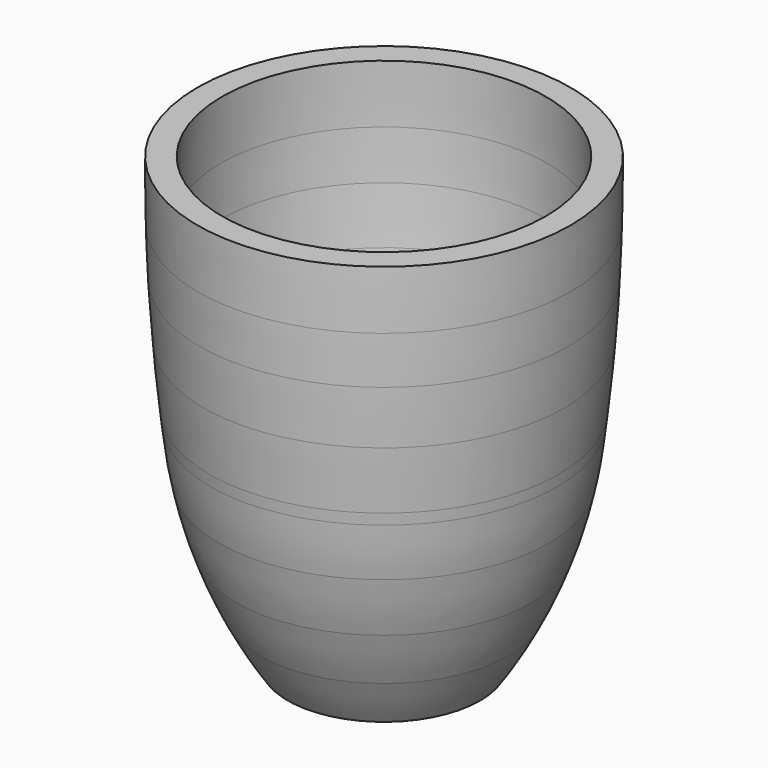
from build123d import *


with BuildPart() as f1:
    # F0 (on Front) → F1 (revolve)
    with BuildSketch(Plane.XZ):
        with BuildLine():
            Line((13.248821, -36.527123), (18.201651, -36.527123))
            ThreePointArc((18.201651, -36.527123), (21.093125, -31.97746), (23.696563, -27.257061))
            Line((23.696563, -27.257061), (19.061687, -27.257061))
            ThreePointArc((19.061687, -27.257061), (16.31296, -31.990983), (13.248821, -36.527123))
        make_face()
    revolve(axis=Axis((0, 0, 5.943397), (0, 0, 1)))


with BuildPart() as f2:
    # F0 (on Front) → F2 (revolve)
    with BuildSketch(Plane.XZ):
        with BuildLine():
            Line((19.061687, -27.257061), (23.696563, -27.257061))
            ThreePointArc((23.696563, -27.257061), (26.097875, -22.16303), (28.163759, -16.923987))
            Line((28.163759, -16.923987), (23.696563, -16.923987))
            ThreePointArc((23.696563, -16.923987), (21.561086, -22.172142), (19.061687, -27.257061))
        make_face()
    revolve(axis=Axis((0, 0, 5.943397), (0, 0, 1)))


with BuildPart() as f3:
    # F0 (on Front) → F3 (revolve)
    with BuildSketch(Plane.XZ):
        with BuildLine():
            Line((23.696563, -16.923987), (28.163759, -16.923987))
            ThreePointArc((28.163759, -16.923987), (29.893018, -11.535714), (31.267452, -6.046201))
            Line((31.267452, -6.046201), (26.83453, -6.046201))
            ThreePointArc((26.83453, -6.046201), (25.457038, -11.540335), (23.696563, -16.923987))
        make_face()
    revolve(axis=Axis((0, 0, 5.943397), (0, 0, 1)))


with BuildPart() as f4:
    # F0 (on Front) → F4 (revolve)
    with BuildSketch(Plane.XZ):
        with BuildLine():
            Line((26.83453, -6.046201), (31.267452, -6.046201))
            ThreePointArc((31.267452, -6.046201), (32.182528, -1.126161), (32.812502, 3.838443))
            ThreePointArc((32.812502, 3.838443), (32.93855, 4.906771), (33.061342, 5.975478))
            Line((33.061342, 5.975478), (28.616339, 5.975478))
            ThreePointArc((28.616339, 5.975478), (28.471119, 4.963361), (28.321372, 3.951903))
            ThreePointArc((28.321372, 3.951903), (27.735055, -1.070512), (26.83453, -6.046201))
        make_face()
    revolve(axis=Axis((0, 0, 5.943397), (0, 0, 1)))


with BuildPart() as f5:
    # F0 (on Front) → F5 (revolve)
    with BuildSketch(Plane.XZ):
        with BuildLine():
            Line((28.616339, 5.975478), (33.061342, 5.975478))
            ThreePointArc((33.061342, 5.975478), (33.66191, 11.688507), (34.169449, 17.410551))
            Line((34.169449, 17.410551), (29.938172, 17.410551))
            ThreePointArc((29.938172, 17.410551), (29.349266, 11.684691), (28.616339, 5.975478))
        make_face()
    revolve(axis=Axis((0, 0, 5.943397), (0, 0, 1)))


with BuildPart() as f6:
    # F0 (on Front) → F6 (revolve)
    with BuildSketch(Plane.XZ):
        with BuildLine():
            Line((29.938172, 17.410551), (34.169449, 17.410551))
            ThreePointArc((34.169449, 17.410551), (34.550817, 22.631282), (34.854743, 27.857093))
            Line((34.854743, 27.857093), (30.639004, 27.857093))
            ThreePointArc((30.639004, 27.857093), (30.348421, 22.629808), (29.938172, 17.410551))
        make_face()
    revolve(axis=Axis((0, 0, 5.943397), (0, 0, 1)))


with BuildPart() as f7:
    # F0 (on Front) → F7 (revolve)
    with BuildSketch(Plane.XZ):
        with BuildLine():
            Line((30.639004, 27.857093), (34.854743, 27.857093))
            ThreePointArc((34.854743, 27.857093), (35.057557, 32.445121), (35.200677, 37.035398))
            Line((35.200677, 37.035398), (30.859232, 37.035398))
            ThreePointArc((30.859232, 37.035398), (30.795213, 32.44514), (30.639004, 27.857093))
        make_face()
    revolve(axis=Axis((0, 0, 5.943397), (0, 0, 1)))


with BuildPart() as f8:
    # F0 (on Front) → F8 (revolve)
    with BuildSketch(Plane.XZ):
        with BuildLine():
            Line((30.859232, 37.035398), (35.200677, 37.035398))
            ThreePointArc((35.200677, 37.035398), (35.294185, 42.611683), (35.299601, 48.188749))
            Line((35.299601, 48.188749), (30.630467, 48.188749))
            ThreePointArc((30.630467, 48.188749), (30.812915, 42.61347), (30.859232, 37.035398))
        make_face()
    revolve(axis=Axis((0, 0, 5.943397), (0, 0, 1)))


solid = Compound([f1.part, f2.part, f3.part, f4.part, f5.part, f6.part, f7.part, f8.part])
